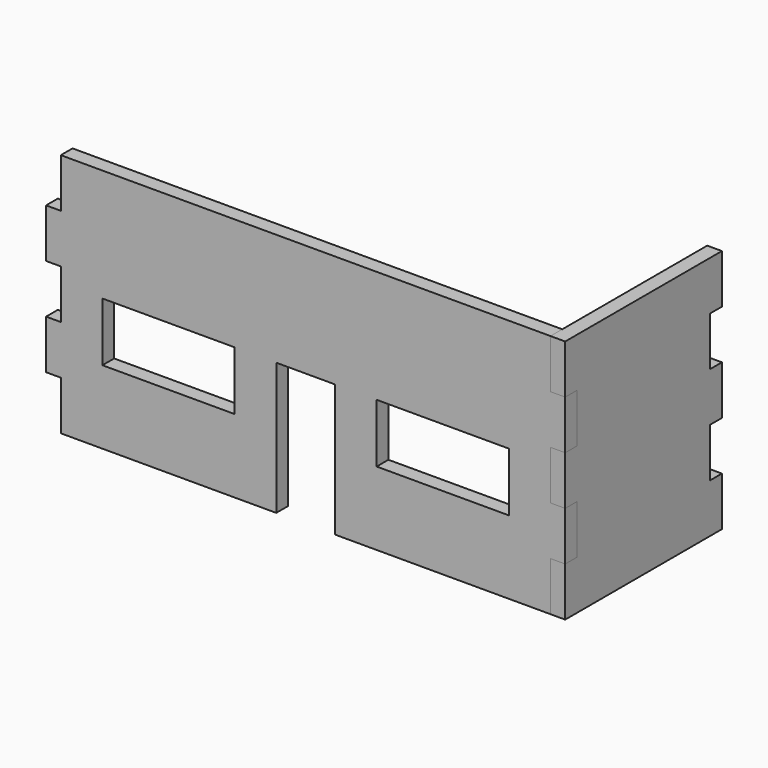
from build123d import *

# Parameters (mm, degrees)
F0_W     = 27
F0_H     = 12
F1_DEPTH = 3
F3_DEPTH = 3


with BuildPart() as f1:
    # F0 (on Front) → F1 (new body)
    with BuildSketch(Plane.XZ):
        Polygon((0, 10), (0, 0), (44, 0), (44, 27), (56, 27), (56, 0), (100, 0), (100, 10), (103, 10), (103, 20), (100, 20), (100, 30), (103, 30), (103, 40), (100, 40), (100, 50), (0, 50), (0, 40), (-3, 40), (-3, 30), (0, 30), (0, 20), (-3, 20), (-3, 10), align=None)
        with Locations((22, 21)):
            Rectangle(F0_W, F0_H, mode=Mode.SUBTRACT)
        with Locations((78, 21)):
            Rectangle(F0_W, F0_H, mode=Mode.SUBTRACT)
    extrude(amount=F1_DEPTH)


with BuildPart() as f3:
    # F2 (on face) → F3 (new body)
    with BuildSketch(Plane.YZ.offset(100)):
        Polygon((37, 50), (-3, 50), (-3, 40), (0, 40), (0, 30), (-3, 30), (-3, 20), (0, 20), (0, 10), (-3, 10), (-3, 0), (37, 0), (37, 10), (34, 10), (34, 20), (37, 20), (37, 30), (34, 30), (34, 40), (37, 40), align=None)
    extrude(amount=F3_DEPTH)


solid = Compound([f1.part, f3.part])
